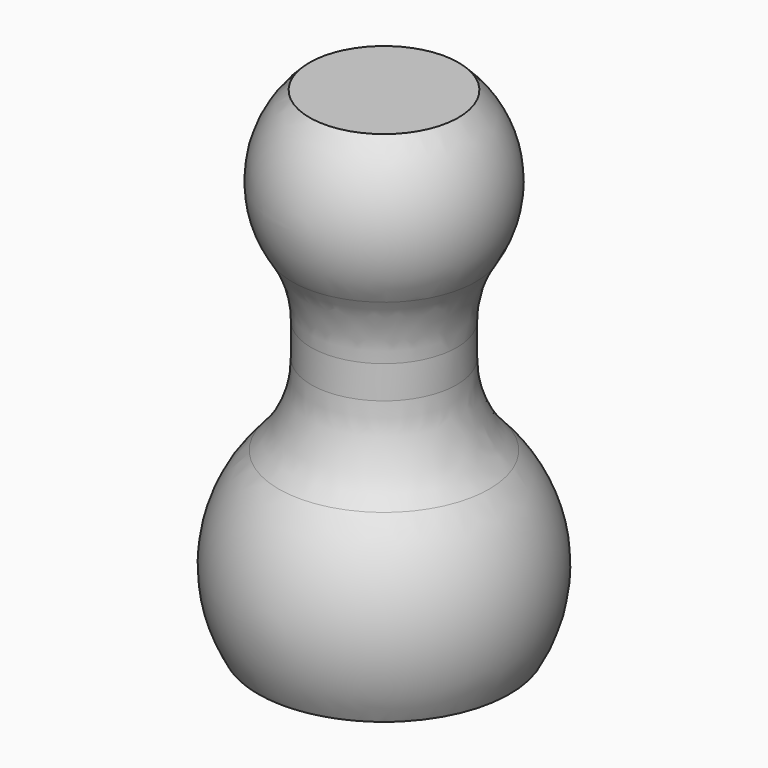
from build123d import *

# Parameters (mm, degrees)
F2_R     = 10
F3_DEPTH = 46.4
F6_R     = 16.1602540378
F7_W     = 76.2340277433
F7_H     = 67.4281166866
F8_DEPTH = 24.8


with BuildPart() as f1:
    # F0 (on Top) → F1 (revolve)
    with BuildSketch(Plane.XY):
        with BuildLine():
            Line((0, -20), (0, 20))
            ThreePointArc((0, 20), (-20, 0), (0, -20))
        make_face()
    revolve(axis=Axis((0, 0, 0), (0, -1, 0)))

    # F2 (on Top) → F3 (join)
    with BuildSketch(Plane.XY):
        Circle(F2_R)
    extrude(amount=F3_DEPTH)

    # F4 (on face) → F5 (revolve)
    with BuildSketch(Plane.XY.offset(46.4)):
        with BuildLine():
            Line((0, 10), (0, 15))
            ThreePointArc((0, 15), (-15, 0), (0, -15))
            Line((0, -15), (0, -10))
            ThreePointArc((0, -10), (-10, 0), (0, 10))
        make_face()
    revolve(axis=Axis((0, 0, 46.4), (0, -1, 0)))

    # F6
    f6_edges = [f1.edges().sort_by_distance(p)[0] for p in [
        (-10, 0, 35.21966),
        (-10, 0, 17.320508),
    ]]
    fillet(f6_edges, radius=F6_R)

    # F7 (on Front) → F8 (intersect, symmetric)
    with BuildSketch(Plane.XZ):
        with Locations((2.2643767297, 23.6501595937)):
            Rectangle(F7_W, F7_H)
    extrude(amount=F8_DEPTH, both=True, mode=Mode.INTERSECT)


solid = f1.part
